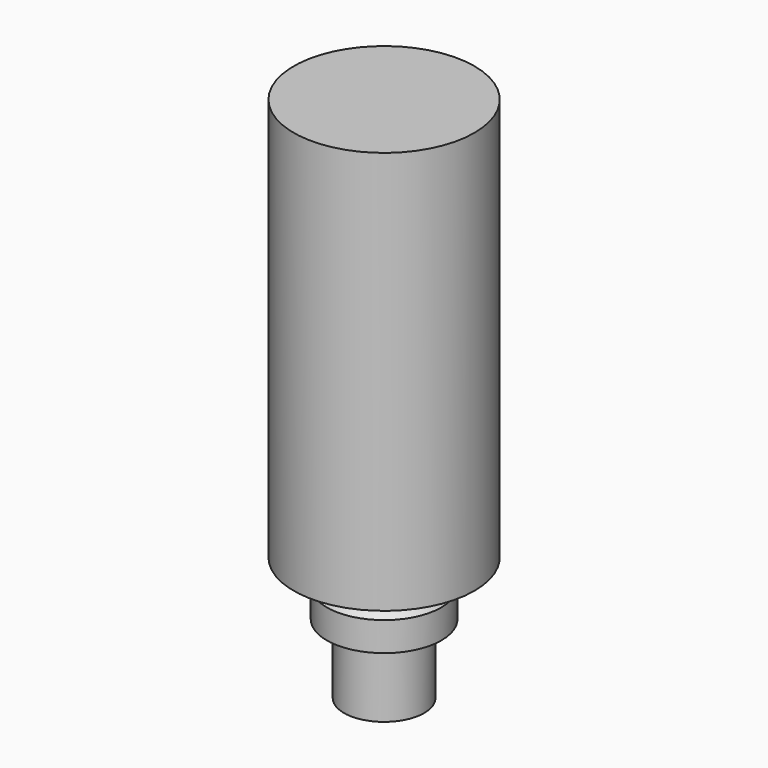
from build123d import *

# Parameters (mm, degrees)
F2_W = 7.15
F2_H = 31.909382


with BuildPart() as f1:
    # F0 (on Front) → F1 (revolve)
    with BuildSketch(Plane.XZ):
        Polygon((2.575, 8.73), (0, 8.73), (0, -5.5), (3.175, -5.5), (3.175, 0), (4.535, 0), (4.535, 2.3), (2.75, 4.3), (3.285, 6.1), align=None)
    revolve(axis=Axis((0, 0, 1.615), (0, 0, 1)))


with BuildPart() as f3:
    # F2 (on Front) → F3 (revolve)
    with BuildSketch(Plane.XZ):
        with Locations((3.575, 20.261078)):
            Rectangle(F2_W, F2_H)
    revolve(axis=Axis((0, 0, 20.261078), (0, 0, -1)))


solid = Compound([f1.part, f3.part])
